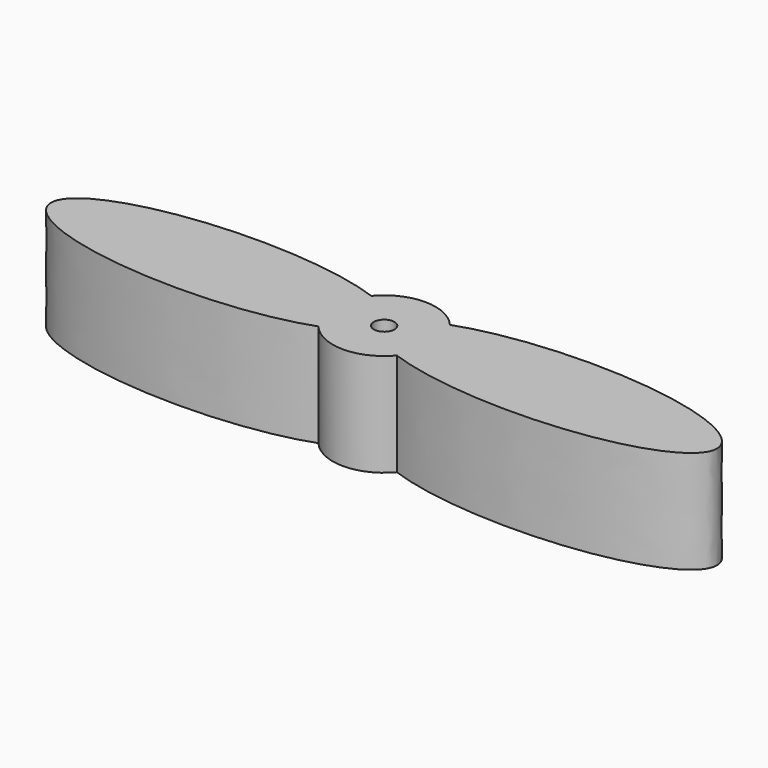
from build123d import *

# Parameters (mm, degrees)
F0_R     = 0.5
F1_DEPTH = 5


with BuildPart() as f1:
    # F0 (on Top) → F1 (new body)
    with BuildSketch(Plane.XY):
        with BuildLine():
            ThreePointArc((2.5, 0), (2.3479046679, -0.8586871784), (1.9101250637, -1.6128925076))
            add(Edge.make_bspline(
                [(1.9101250637, -1.6128925076), (16.1909325691, -6.835739274), (16.1909325691, 0), (16.1909325691, 6.835739274), (1.9101250637, 1.6128925076)],
                knots=[3.8428214069, 3.8428214069, 3.8428214069, 6.2831853072, 6.2831853072, 8.7235492074, 8.7235492074, 8.7235492074], degree=2, weights=[1, 0.3434748714, 1, 0.3434748714, 1]))
            ThreePointArc((1.9101250637, 1.6128925076), (2.3479046679, 0.8586871784), (2.5, 0))
        make_face()
        with BuildLine():
            ThreePointArc((-1.9134918434, -1.6088968162), (-0.0026125062, -2.499998635), (1.9101250637, -1.6128925076))
            ThreePointArc((1.9101250637, -1.6128925076), (2.3479046679, -0.8586871784), (2.5, 0))
            ThreePointArc((2.5, 0), (2.3479046679, 0.8586871784), (1.9101250637, 1.6128925076))
            ThreePointArc((1.9101250637, 1.6128925076), (-0.0026125062, 2.499998635), (-1.9134918434, 1.6088968162))
            ThreePointArc((-1.9134918434, 1.6088968162), (-2.5, 0), (-1.9134918434, -1.6088968162))
        make_face()
        Circle(F0_R, mode=Mode.SUBTRACT)
        with BuildLine():
            add(Edge.make_bspline(
                [(-1.9134918434, 1.6088968162), (-16.2052016095, 6.8579473197), (-16.2052016095, 0), (-16.2052016095, -6.8579473197), (-1.9134918434, -1.6088968162)],
                knots=[0.6991387479, 0.6991387479, 0.6991387479, 3.1415926536, 3.1415926536, 5.5840465592, 5.5840465592, 5.5840465592], degree=2, weights=[1, 0.3424932573, 1, 0.3424932573, 1]))
            ThreePointArc((-1.9134918434, -1.6088968162), (-2.5, 0), (-1.9134918434, 1.6088968162))
        make_face()
    extrude(amount=F1_DEPTH)


solid = f1.part
